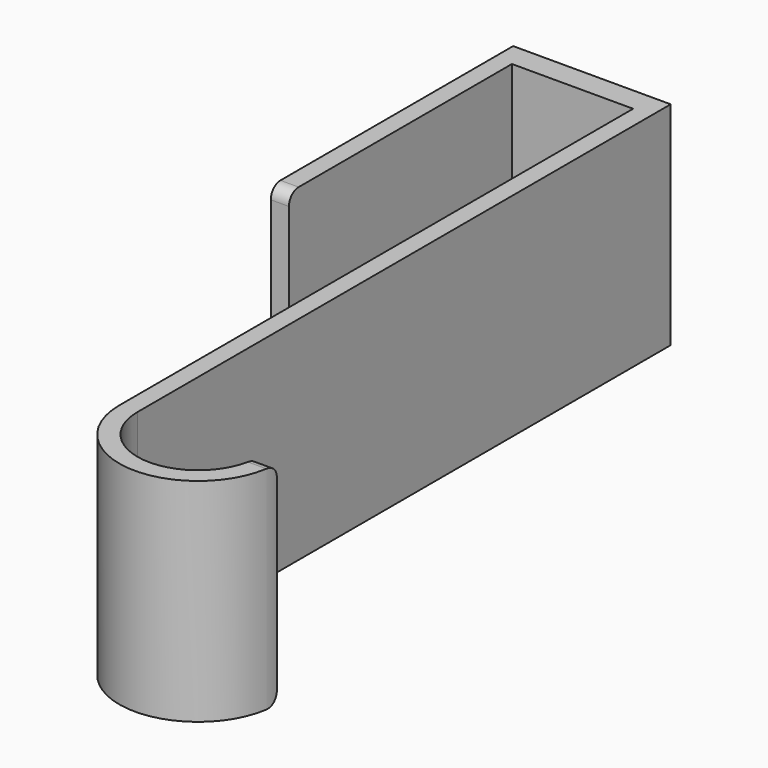
from build123d import *

# Parameters (mm, degrees)
F1_DEPTH = 35
F2_R     = 2


with BuildPart() as f1:
    # F0 (on Top) → F1 (new body)
    with BuildSketch(Plane.XY):
        with BuildLine():
            Line((0, 50), (0, 0))
            Line((0, 0), (3, 0))
            Line((3, 0), (3, 46))
            Line((3, 46), (23, 46))
            Line((23, 46), (23, -60))
            ThreePointArc((23, -60), (36, -73), (49, -60))
            Line((49, -60), (46, -60))
            ThreePointArc((46, -60), (36, -70), (26, -60))
            Line((26, -60), (26, 50))
            Line((26, 50), (0, 50))
        make_face()
    extrude(amount=F1_DEPTH)

    # F2
    f2_edges = [f1.edges().sort_by_distance(p)[0] for p in [
        (47.5, -60, 35),
        (47.5, -60, 0),
        (1.5, 0, 35),
        (1.5, 0, 0),
    ]]
    fillet(f2_edges, radius=F2_R)


solid = f1.part
